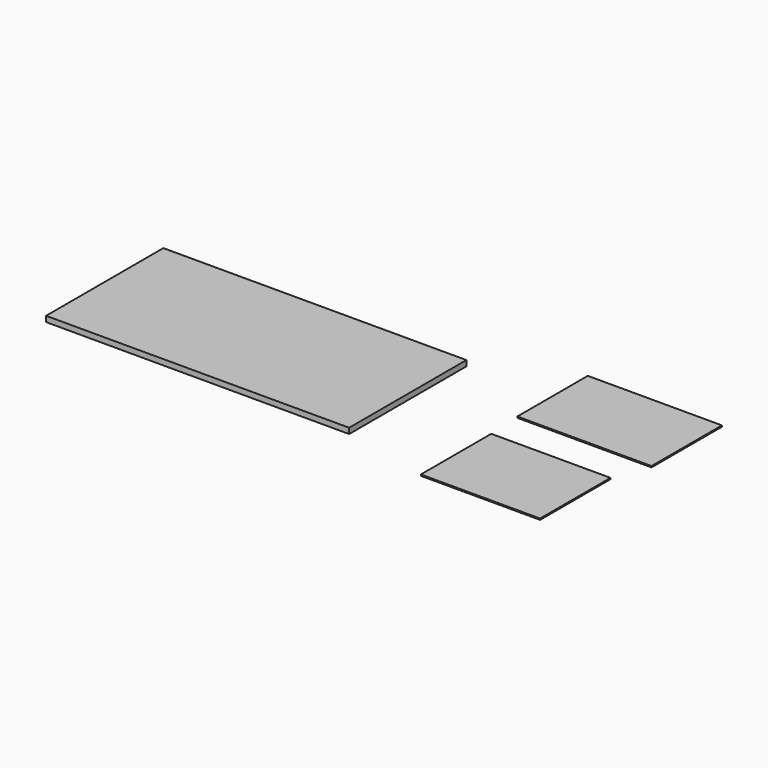
from build123d import *

# Parameters (mm, degrees)
F0_W     = 1549.4
F0_H     = 749.3
F1_DEPTH = 28.575
F2_W     = 609.6
F2_H     = 450.088
F3_DEPTH = 6.35
F4_W     = 685.8
F4_H     = 450.088
F5_DEPTH = 6.35


with BuildPart() as f1:
    # F0 (on Top) → F1 (new body)
    with BuildSketch(Plane.XY):
        with Locations((-1632.690442, 335.744324)):
            Rectangle(F0_W, F0_H)
    extrude(amount=F1_DEPTH)


with BuildPart() as f3:
    # F2 (on Top) → F3 (new body)
    with BuildSketch(Plane.XY):
        with Locations((-104.03229, 82.840162)):
            Rectangle(F2_W, F2_H)
    extrude(amount=F3_DEPTH)


with BuildPart() as f5:
    # F4 (on face) → F5 (new body)
    with BuildSketch(Plane.XY.offset(6.35)):
        with Locations((-70.506952, 705.383408)):
            Rectangle(F4_W, F4_H)
    extrude(amount=F5_DEPTH)


solid = Compound([f1.part, f3.part, f5.part])
